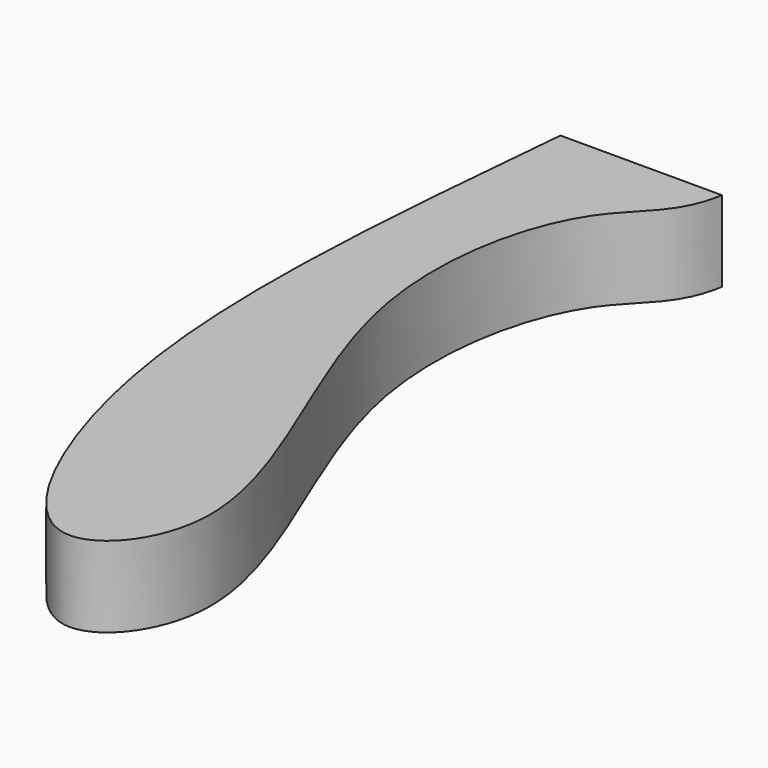
from build123d import *

# Parameters (mm, degrees)
F1_DEPTH = 10


with BuildPart() as f1:
    # F0 (on Top) → F1 (new body)
    with BuildSketch(Plane.XY):
        with BuildLine():
            Line((20, 0), (0, 0))
            add(Edge.make_bspline(
                [(0, 0), (-2.5627839239, -27.4197345015), (-5.8798079081, -63.3820015467), (12.810862864, -102.5971782972), (30.0452259542, -81.7324974706), (3.4307744089, -41.2602634109), (10.7451562075, -9.2356297228), (19.0690711394, -5.7235789832), (20, 0)],
                knots=[0, 0, 0, 0, 0.2495203353, 0.4139248159, 0.5248459247, 0.7305357823, 0.8920368063, 1, 1, 1, 1], degree=3))
        make_face()
    extrude(amount=F1_DEPTH)


solid = f1.part
